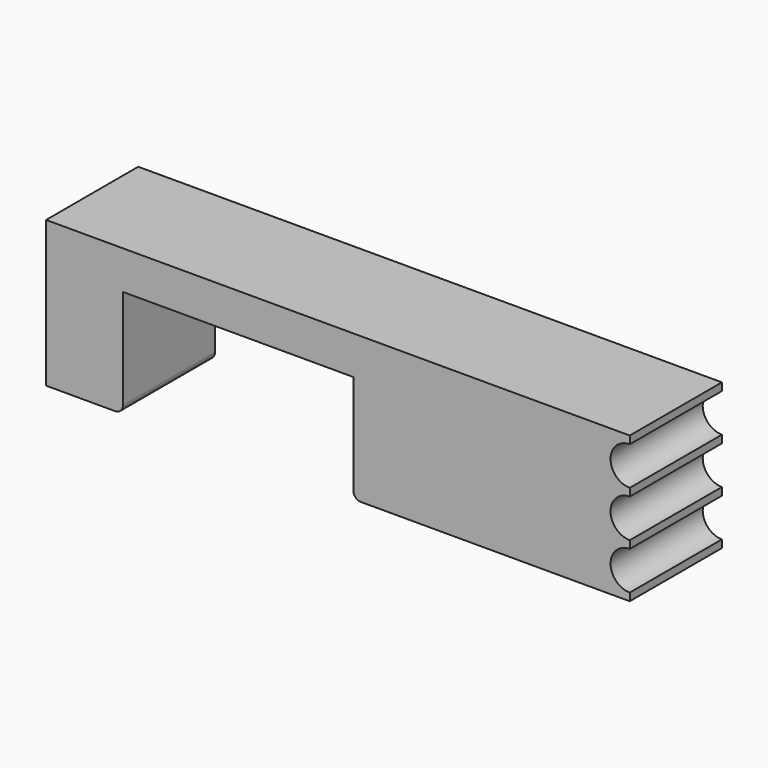
from build123d import *

# Parameters (mm, degrees)
F1_DEPTH      = 7.5
F1_DEPTH_BACK = 7.5
F2_R          = 2.5
F3_DEPTH      = 15.001
F4_R          = 1


with BuildPart() as f1:
    # F0 (on Front) → F1 (new body, two sides)
    with BuildSketch(Plane.XZ) as f1_sk:
        Polygon((36, 5), (-40, 5), (-40, -14), (-30, -14), (-30, 0), (0, 0), (0, -14), (36, -14), align=None)
    extrude(amount=F1_DEPTH)
    extrude(f1_sk.sketch, amount=-F1_DEPTH_BACK)

    # F2 (on face) → F3 (cut, through all)
    with BuildSketch(Plane.XZ.offset(7.5)):
        with Locations((36, 1.5)):
            Circle(F2_R)
        with Locations((36, -4.5)):
            Circle(F2_R)
        with Locations((36, -10.5)):
            Circle(F2_R)
    extrude(amount=-F3_DEPTH, mode=Mode.SUBTRACT)

    # F4
    f4_edges = [f1.edges().sort_by_distance(p)[0] for p in [
        (-30, 0, -14),
        (0, 0, -14),
    ]]
    fillet(f4_edges, radius=F4_R)


solid = f1.part
